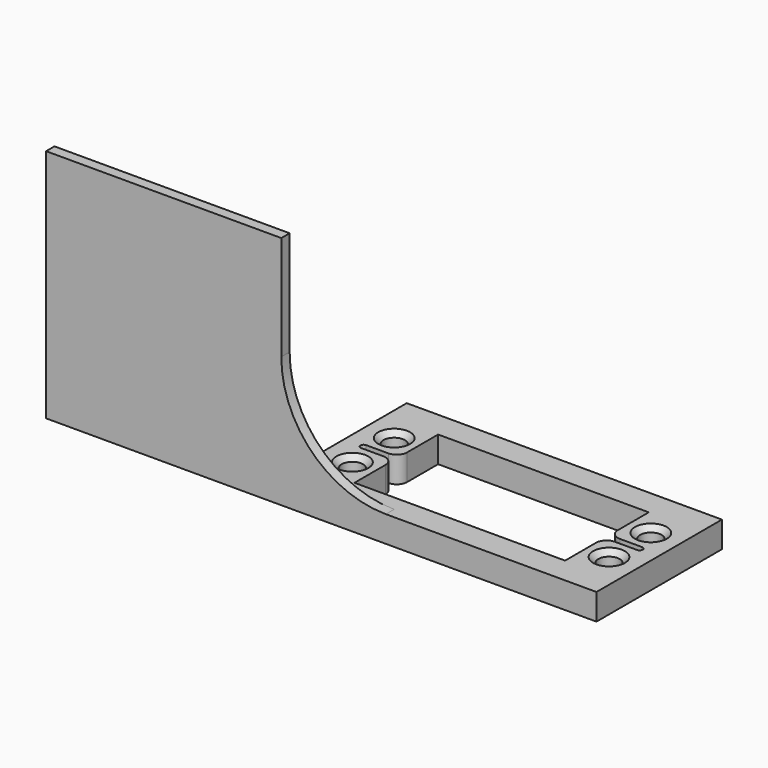
from build123d import *

# Parameters (mm, degrees)
F0_W     = 60.3
F0_H     = 30
F0_R     = 2.05
F1_DEPTH = 5
F3_DEPTH = 2
F4_SIZE  = 1


with BuildPart() as f1:
    # F0 (on Top) → F1 (new body)
    with BuildSketch(Plane.XY):
        Rectangle(F0_W, F0_H)
        with Locations((-24.55, -5)):
            Circle(F0_R, mode=Mode.SUBTRACT)
        with Locations((24.55, -5)):
            Circle(F0_R, mode=Mode.SUBTRACT)
        with Locations((-24.55, 5)):
            Circle(F0_R, mode=Mode.SUBTRACT)
        with BuildLine():
            Line((-20.15, 10), (0, 10))
            Line((0, 10), (20.15, 10))
            Line((20.15, 10), (20.15, 2.6))
            ThreePointArc((20.15, 2.6), (20.735786, 1.185786), (22.15, 0.6))
            Line((22.15, 0.6), (26.4, 0.6))
            ThreePointArc((26.4, 0.6), (26.824264, 0.424264), (27, 0))
            ThreePointArc((27, 0), (26.824264, -0.424264), (26.4, -0.6))
            Line((26.4, -0.6), (22.15, -0.6))
            ThreePointArc((22.15, -0.6), (20.735786, -1.185786), (20.15, -2.6))
            Line((20.15, -2.6), (20.15, -10))
            Line((20.15, -10), (0, -10))
            Line((0, -10), (-20.15, -10))
            Line((-20.15, -10), (-20.15, -2.6))
            ThreePointArc((-20.15, -2.6), (-20.735786, -1.185786), (-22.15, -0.6))
            Line((-22.15, -0.6), (-26.4, -0.6))
            ThreePointArc((-26.4, -0.6), (-26.824264, -0.424264), (-27, 0))
            ThreePointArc((-27, 0), (-26.824264, 0.424264), (-26.4, 0.6))
            Line((-26.4, 0.6), (-22.15, 0.6))
            ThreePointArc((-22.15, 0.6), (-20.735786, 1.185786), (-20.15, 2.6))
            Line((-20.15, 2.6), (-20.15, 10))
        make_face(mode=Mode.SUBTRACT)
        with Locations((24.55, 5)):
            Circle(F0_R, mode=Mode.SUBTRACT)
    extrude(amount=F1_DEPTH)

    # F2 (on face) → F3 (join)
    with BuildSketch(Plane.XZ.offset(15)):
        with BuildLine():
            Line((-75.15, 0), (-10.027895, 0))
            Line((-10.027895, 0), (-10.027895, 5))
            Line((-10.027895, 5), (-10.15, 5))
            ThreePointArc((-10.15, 5), (-24.292136, 10.857864), (-30.15, 25))
            Line((-30.15, 25), (-30.15, 45))
            Line((-30.15, 45), (-75.15, 45))
            Line((-75.15, 45), (-75.15, 0))
        make_face()
    extrude(amount=-F3_DEPTH)

    # F4
    f4_edges = [f1.edges().sort_by_distance(p)[0] for p in [
        (-26.6, -5, 5),
        (-26.6, 5, 5),
        (22.5, -5, 5),
        (22.5, 5, 5),
    ]]
    chamfer(f4_edges, length=F4_SIZE)


solid = f1.part
